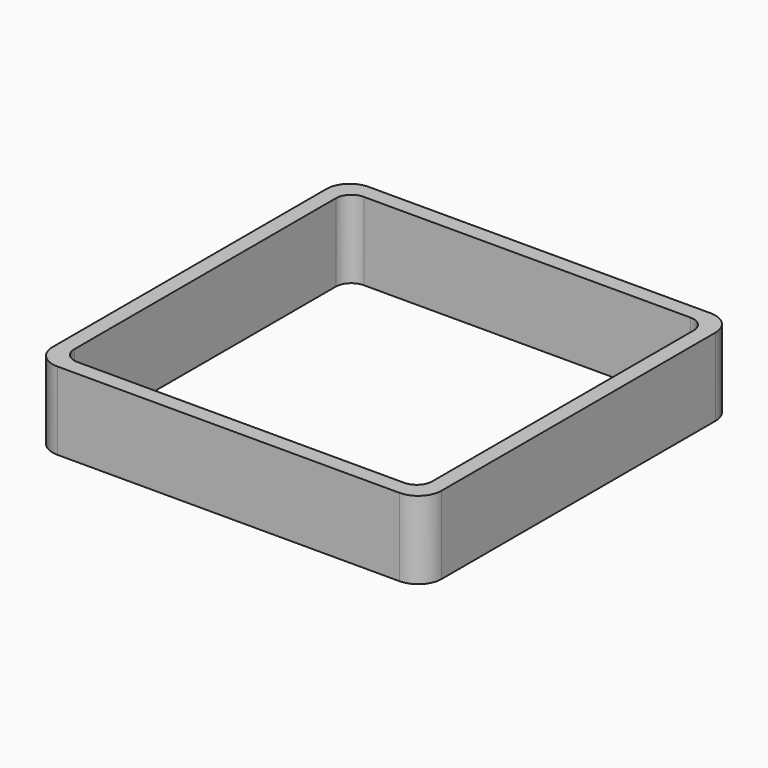
from build123d import *

# Parameters (mm, degrees)
EXTRUDE_DEPTH = 50


with BuildPart() as part:
    # Sketch → Extrude (new body)
    with BuildSketch(Plane.XY):
        with BuildLine():
            Line((-110, 125), (110, 125))
            ThreePointArc((125, 110), (120.606602, 120.606602), (110, 125))
            Line((125, 110), (125, -110))
            ThreePointArc((110, -125), (120.606602, -120.606602), (125, -110))
            Line((110, -125), (-110, -125))
            ThreePointArc((-125, -110), (-120.606602, -120.606602), (-110, -125))
            Line((-125, -110), (-125, 110))
            ThreePointArc((-110, 125), (-120.606602, 120.606602), (-125, 110))
        make_face()
        with BuildLine():
            Line((-105, 115), (105, 115))
            ThreePointArc((115, 105), (112.071068, 112.071068), (105, 115))
            Line((115, 105), (115, -105))
            ThreePointArc((105, -115), (112.071068, -112.071068), (115, -105))
            Line((105, -115), (-105, -115))
            ThreePointArc((-115, -105), (-112.071068, -112.071068), (-105, -115))
            Line((-115, -105), (-115, 105))
            ThreePointArc((-105, 115), (-112.071068, 112.071068), (-115, 105))
        make_face(mode=Mode.SUBTRACT)
    extrude(amount=EXTRUDE_DEPTH)


solid = part.part
